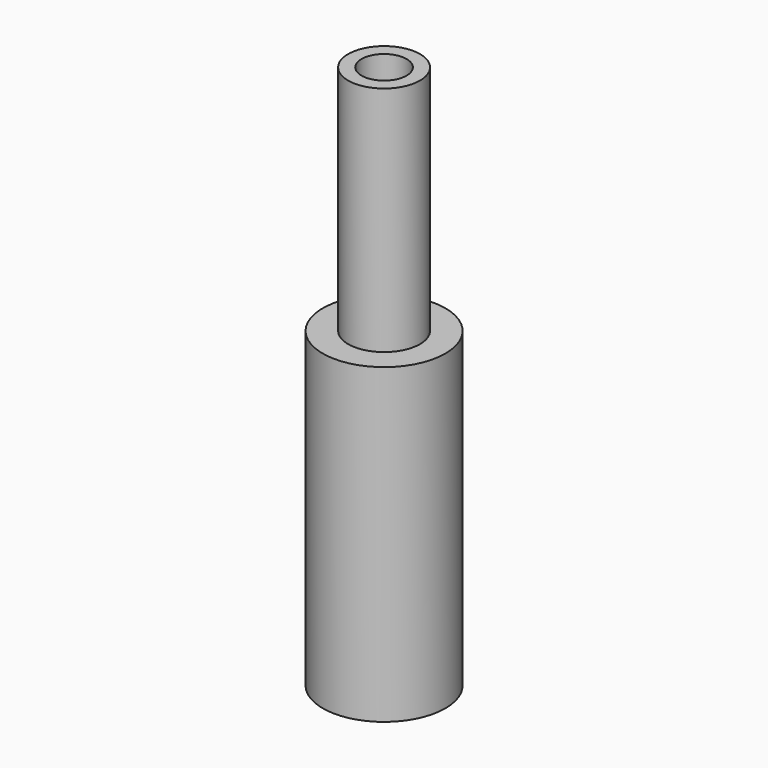
from build123d import *

# Parameters (mm, degrees)
F0_R     = 13.75
F1_DEPTH = 70
F2_R     = 8.05
F3_DEPTH = 52
F4_R     = 10.75
F5_DEPTH = 52
F6_R     = 5.05
F7_DEPTH = 70


with BuildPart() as f1:
    # F0 (on Top) → F1 (new body)
    with BuildSketch(Plane.XY):
        Circle(F0_R)
    extrude(amount=F1_DEPTH)

    # F2 (on face) → F3 (join)
    with BuildSketch(Plane.XY.offset(70)):
        Circle(F2_R)
    extrude(amount=F3_DEPTH)

    # F4 (on face) → F5 (cut)
    with BuildSketch(Plane(origin=(0, 0, 0), x_dir=(1, 0, 0), z_dir=(0, 0, -1))):
        Circle(F4_R)
    extrude(amount=-F5_DEPTH, mode=Mode.SUBTRACT)

    # F6 (on face) → F7 (cut, through all)
    with BuildSketch(Plane.XY.offset(122)):
        Circle(F6_R)
    extrude(amount=-F7_DEPTH, mode=Mode.SUBTRACT)


solid = f1.part
